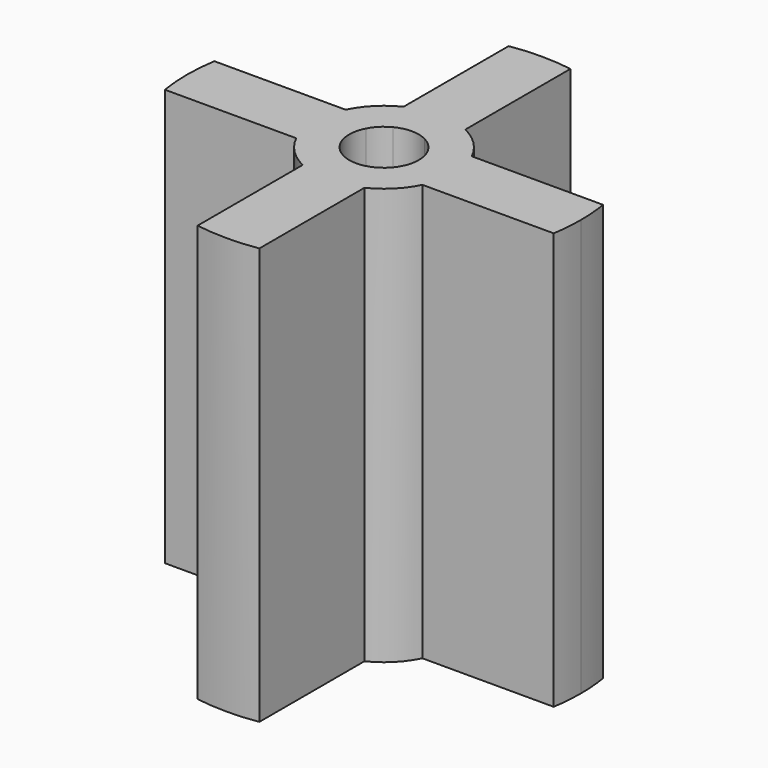
from build123d import *

# Parameters (mm, degrees)
F1_DEPTH = 54


with BuildPart() as f1:
    # F0 (on Top) → F1 (new body)
    with BuildSketch(Plane.XY):
        with BuildLine():
            ThreePointArc((-4, 12.4743737318), (0, 13.1), (4, 12.4743737318))
            Line((4, 12.4743737318), (4, 25.1843205189))
            Line((4, 25.1843205189), (-4, 25.1843205189))
            Line((-4, 25.1843205189), (-4, 12.4743737318))
        make_face()
        with BuildLine():
            Line((-4, 25.1843205189), (4, 25.1843205189))
            ThreePointArc((4, 25.1843205189), (0, 25.5), (-4, 25.1843205189))
        make_face()
        with BuildLine():
            ThreePointArc((25.5, 0), (25.4209576259, 2.0062186779), (25.1843205189, 4))
            Line((25.1843205189, 4), (25.1843205189, -4))
            ThreePointArc((25.1843205189, -4), (25.4209576259, -2.0062186779), (25.5, 0))
        make_face()
        with BuildLine():
            Line((25.1843205189, 4), (12.4743737318, 4))
            ThreePointArc((12.4743737318, 4), (12.942648413, 2.0243152069), (13.1, 0))
            ThreePointArc((13.1, 0), (12.942648413, -2.0243152069), (12.4743737318, -4))
            Line((12.4743737318, -4), (25.1843205189, -4))
            Line((25.1843205189, -4), (25.1843205189, 4))
        make_face()
        with BuildLine():
            ThreePointArc((-4, -25.1843205189), (0, -25.5), (4, -25.1843205189))
            Line((4, -25.1843205189), (-4, -25.1843205189))
        make_face()
        with BuildLine():
            Line((-25.1843205189, -4), (-25.1843205189, 4))
            ThreePointArc((-25.1843205189, 4), (-25.5, 0), (-25.1843205189, -4))
        make_face()
        with BuildLine():
            ThreePointArc((-12.4743737318, -4), (-13.1, 0), (-12.4743737318, 4))
            Line((-12.4743737318, 4), (-25.1843205189, 4))
            Line((-25.1843205189, 4), (-25.1843205189, -4))
            Line((-25.1843205189, -4), (-12.4743737318, -4))
        make_face()
        with BuildLine():
            Line((4, -25.1843205189), (4, -12.4743737318))
            ThreePointArc((4, -12.4743737318), (0, -13.1), (-4, -12.4743737318))
            Line((-4, -12.4743737318), (-4, -25.1843205189))
            Line((-4, -25.1843205189), (4, -25.1843205189))
        make_face()
        with BuildLine():
            Line((-8.1737384348, 4), (-10.3542261903, 4))
            ThreePointArc((-10.3542261903, 4), (-11.1, 0), (-10.3542261903, -4))
            Line((-10.3542261903, -4), (-8.1737384348, -4))
            ThreePointArc((-8.1737384348, -4), (-9.1, 0), (-8.1737384348, 4))
        make_face()
        with BuildLine():
            ThreePointArc((-10.3542261903, -4), (-11.1, 0), (-10.3542261903, 4))
            Line((-10.3542261903, 4), (-12.4743737318, 4))
            ThreePointArc((-12.4743737318, 4), (-13.1, 0), (-12.4743737318, -4))
            Line((-12.4743737318, -4), (-10.3542261903, -4))
        make_face()
        with BuildLine():
            Line((4, 8.1737384348), (4, 10.3542261903))
            ThreePointArc((4, 10.3542261903), (0, 11.1), (-4, 10.3542261903))
            Line((-4, 10.3542261903), (-4, 8.1737384348))
            ThreePointArc((-4, 8.1737384348), (0, 9.1), (4, 8.1737384348))
        make_face()
        with BuildLine():
            ThreePointArc((-4, 10.3542261903), (0, 11.1), (4, 10.3542261903))
            Line((4, 10.3542261903), (4, 12.4743737318))
            ThreePointArc((4, 12.4743737318), (0, 13.1), (-4, 12.4743737318))
            Line((-4, 12.4743737318), (-4, 10.3542261903))
        make_face()
        with BuildLine():
            ThreePointArc((10.3542261903, 4), (10.9119638634, 2.0344642154), (11.1, 0))
            ThreePointArc((11.1, 0), (10.9119638634, -2.0344642154), (10.3542261903, -4))
            Line((10.3542261903, -4), (12.4743737318, -4))
            ThreePointArc((12.4743737318, -4), (12.942648413, -2.0243152069), (13.1, 0))
            ThreePointArc((13.1, 0), (12.942648413, 2.0243152069), (12.4743737318, 4))
            Line((12.4743737318, 4), (10.3542261903, 4))
        make_face()
        with BuildLine():
            ThreePointArc((10.3542261903, -4), (10.9119638634, -2.0344642154), (11.1, 0))
            ThreePointArc((11.1, 0), (10.9119638634, 2.0344642154), (10.3542261903, 4))
            Line((10.3542261903, 4), (8.1737384348, 4))
            ThreePointArc((8.1737384348, 4), (8.8654108691, 2.052922337), (9.1, 0))
            ThreePointArc((9.1, 0), (8.8654108691, -2.052922337), (8.1737384348, -4))
            Line((8.1737384348, -4), (10.3542261903, -4))
        make_face()
        with BuildLine():
            ThreePointArc((-4, -10.3542261903), (0, -11.1), (4, -10.3542261903))
            Line((4, -10.3542261903), (4, -8.1737384348))
            ThreePointArc((4, -8.1737384348), (0, -9.1), (-4, -8.1737384348))
            Line((-4, -8.1737384348), (-4, -10.3542261903))
        make_face()
        with BuildLine():
            Line((4, -12.4743737318), (4, -10.3542261903))
            ThreePointArc((4, -10.3542261903), (0, -11.1), (-4, -10.3542261903))
            Line((-4, -10.3542261903), (-4, -12.4743737318))
            ThreePointArc((-4, -12.4743737318), (0, -13.1), (4, -12.4743737318))
        make_face()
        with BuildLine():
            Line((-4, 4), (-8.1737384348, 4))
            ThreePointArc((-8.1737384348, 4), (-9.1, 0), (-8.1737384348, -4))
            Line((-8.1737384348, -4), (-4, -4))
            Line((-4, -4), (-4, -2.0615528128))
            ThreePointArc((-4, -2.0615528128), (-4.5, 0), (-4, 2.0615528128))
            Line((-4, 2.0615528128), (-4, 4))
        make_face()
        with BuildLine():
            Line((-4, 4), (-4, 8.1737384348))
            ThreePointArc((-4, 8.1737384348), (-6.4346717088, 6.4346717088), (-8.1737384348, 4))
            Line((-8.1737384348, 4), (-4, 4))
        make_face()
        with BuildLine():
            Line((4, 4), (4, 8.1737384348))
            ThreePointArc((4, 8.1737384348), (0, 9.1), (-4, 8.1737384348))
            Line((-4, 8.1737384348), (-4, 4))
            Line((-4, 4), (-2.0615528128, 4))
            ThreePointArc((-2.0615528128, 4), (0, 4.5), (2.0615528128, 4))
            Line((2.0615528128, 4), (4, 4))
        make_face()
        with BuildLine():
            Line((4, 4), (8.1737384348, 4))
            ThreePointArc((8.1737384348, 4), (6.4346717088, 6.4346717088), (4, 8.1737384348))
            Line((4, 8.1737384348), (4, 4))
        make_face()
        with BuildLine():
            ThreePointArc((9.1, 0), (8.8654108691, 2.052922337), (8.1737384348, 4))
            Line((8.1737384348, 4), (4, 4))
            Line((4, 4), (4, 2.0615528128))
            ThreePointArc((4, 2.0615528128), (4.3732139211, 1.0606601718), (4.5, 0))
            ThreePointArc((4.5, 0), (4.3732139211, -1.0606601718), (4, -2.0615528128))
            Line((4, -2.0615528128), (4, -4))
            Line((4, -4), (8.1737384348, -4))
            ThreePointArc((8.1737384348, -4), (8.8654108691, -2.052922337), (9.1, 0))
        make_face()
        with BuildLine():
            ThreePointArc((-4, -8.1737384348), (0, -9.1), (4, -8.1737384348))
            Line((4, -8.1737384348), (4, -4))
            Line((4, -4), (2.0615528128, -4))
            ThreePointArc((2.0615528128, -4), (0, -4.5), (-2.0615528128, -4))
            Line((-2.0615528128, -4), (-4, -4))
            Line((-4, -4), (-4, -8.1737384348))
        make_face()
        with BuildLine():
            ThreePointArc((-8.1737384348, -4), (-6.4346717088, -6.4346717088), (-4, -8.1737384348))
            Line((-4, -8.1737384348), (-4, -4))
            Line((-4, -4), (-8.1737384348, -4))
        make_face()
        with BuildLine():
            ThreePointArc((4, -8.1737384348), (6.4346717088, -6.4346717088), (8.1737384348, -4))
            Line((8.1737384348, -4), (4, -4))
            Line((4, -4), (4, -8.1737384348))
        make_face()
        with BuildLine():
            Line((2.0615528128, -4), (4, -4))
            Line((4, -4), (4, -2.0615528128))
            ThreePointArc((4, -2.0615528128), (3.1819805153, -3.1819805153), (2.0615528128, -4))
        make_face()
        with BuildLine():
            Line((-4, -2.0615528128), (-4, -4))
            Line((-4, -4), (-2.0615528128, -4))
            ThreePointArc((-2.0615528128, -4), (-3.1819805153, -3.1819805153), (-4, -2.0615528128))
        make_face()
        with BuildLine():
            Line((-2.0615528128, 4), (-4, 4))
            Line((-4, 4), (-4, 2.0615528128))
            ThreePointArc((-4, 2.0615528128), (-3.1819805153, 3.1819805153), (-2.0615528128, 4))
        make_face()
        with BuildLine():
            Line((4, 2.0615528128), (4, 4))
            Line((4, 4), (2.0615528128, 4))
            ThreePointArc((2.0615528128, 4), (3.1819805153, 3.1819805153), (4, 2.0615528128))
        make_face()
    extrude(amount=-F1_DEPTH)


solid = f1.part
